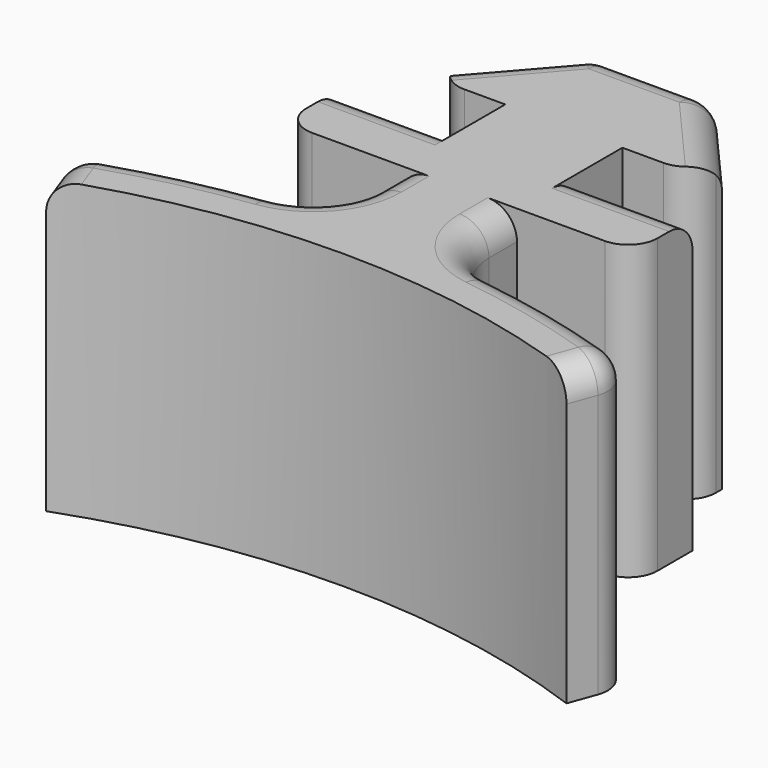
from build123d import *

# Parameters (mm, degrees)
F1_DEPTH = 12.7
F2_R     = 1.27


with BuildPart() as f1:
    # F0 (on Top) → F1 (new body)
    with BuildSketch(Plane.XY):
        with BuildLine():
            ThreePointArc((-11.2866647297, 31.0098564859), (0, 33), (11.2866647297, 31.0098564859))
            Line((11.2866647297, 31.0098564859), (11.7129790451, 32.1811454409))
            ThreePointArc((11.7129790451, 32.1811454409), (11.6604357653, 33.1734751566), (10.9094104776, 33.8241978919))
            ThreePointArc((10.9094104776, 33.8241978919), (7.8564465257, 34.6607537135), (4.7411554622, 35.2223373001))
            ThreePointArc((4.7411554622, 35.2223373001), (3.167898391, 36.0676691962), (2.54, 37.7396343385))
            Line((2.54, 37.7396343385), (2.54, 39.2591184658))
            Line((2.54, 39.2591184658), (6.35, 39.2591184658))
            ThreePointArc((6.35, 39.2591184658), (7.2480256121, 39.6310928537), (7.62, 40.5291184658))
            Line((7.62, 40.5291184658), (7.62, 42.4341184658))
            Line((7.62, 42.4341184658), (2.54, 42.4341184658))
            Line((2.54, 42.4341184658), (2.54, 44.9741184658))
            Line((2.54, 44.9741184658), (4.318, 44.9741184658))
            ThreePointArc((4.318, 44.9741184658), (5.2160256121, 45.3460928537), (5.588, 46.2441184658))
            Line((5.588, 46.2441184658), (5.588, 46.5616184658))
            Line((5.588, 46.5616184658), (2.9195765878, 49.6191869589))
            ThreePointArc((2.9195765878, 49.6191869589), (2.488257012, 49.9402838921), (1.9627272727, 50.0541184658))
            Line((1.9627272727, 50.0541184658), (0, 50.0541184658))
            Line((0, 50.0541184658), (-1.9627272727, 50.0541184658))
            ThreePointArc((-1.9627272727, 50.0541184658), (-2.488257012, 49.9402838921), (-2.9195765878, 49.6191869589))
            Line((-2.9195765878, 49.6191869589), (-5.588, 46.5616184658))
            Line((-5.588, 46.5616184658), (-5.588, 46.2441184658))
            ThreePointArc((-5.588, 46.2441184658), (-5.2160256121, 45.3460928537), (-4.318, 44.9741184658))
            Line((-4.318, 44.9741184658), (-2.54, 44.9741184658))
            Line((-2.54, 44.9741184658), (-2.54, 42.4341184658))
            Line((-2.54, 42.4341184658), (-7.62, 42.4341184658))
            Line((-7.62, 42.4341184658), (-7.62, 40.5291184658))
            ThreePointArc((-7.62, 40.5291184658), (-7.2480256121, 39.6310928537), (-6.35, 39.2591184658))
            Line((-6.35, 39.2591184658), (-2.54, 39.2591184658))
            Line((-2.54, 39.2591184658), (-2.54, 37.7396343385))
            ThreePointArc((-2.54, 37.7396343385), (-3.167898391, 36.0676691962), (-4.7411554622, 35.2223373001))
            ThreePointArc((-4.7411554622, 35.2223373001), (-7.8564465257, 34.6607537135), (-10.9094104776, 33.8241978919))
            ThreePointArc((-10.9094104776, 33.8241978919), (-11.6604357653, 33.1734751566), (-11.7129790451, 32.1811454409))
            Line((-11.7129790451, 32.1811454409), (-11.2866647297, 31.0098564859))
        make_face()
    extrude(amount=F1_DEPTH)

    # F2
    f2_edges = [f1.edges().sort_by_distance(p)[0] for p in [
        (3.167898, 36.067669, 12.7),
        (-7.856447, 34.660754, 12.7),
        (-5.08, 42.434118, 12.7),
        (5.08, 42.434118, 12.7),
        (4.253788, 48.090403, 12.7),
    ]]
    fillet(f2_edges, radius=F2_R)


solid = f1.part
